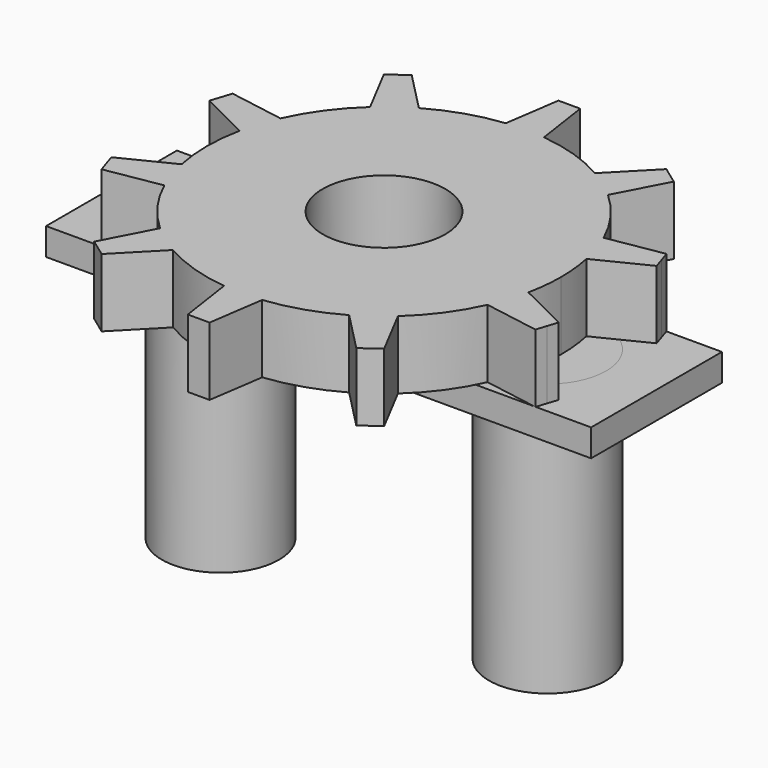
from build123d import *

# Parameters (mm, degrees)
F0_R     = 22.5
F1_DEPTH = 25
F4_R     = 21.5
F5_DEPTH = 100
F4_W     = 200
F4_H     = 60
F6_DEPTH = 10


with BuildPart() as f1:
    # F0 (on Top) → F1 (new body)
    with BuildSketch(Plane.XY):
        with BuildLine():
            ThreePointArc((63.622272, -13.311894), (64.654651, -6.691499), (65, 0))
            ThreePointArc((65, 0), (64.654651, 6.691499), (63.622272, 13.311894))
            ThreePointArc((63.622272, 13.311894), (61.818674, 20.086105), (59.296034, 26.626685))
            ThreePointArc((59.296034, 26.626685), (52.586105, 38.206041), (43.646964, 48.165781))
            ThreePointArc((43.646964, 48.165781), (38.206041, 52.586105), (32.320726, 56.394775))
            ThreePointArc((32.320726, 56.394775), (20.086105, 61.818674), (7, 64.621978))
            ThreePointArc((7, 64.621978), (0, 65), (-7, 64.621978))
            ThreePointArc((-7, 64.621978), (-20.086105, 61.818674), (-32.320726, 56.394775))
            ThreePointArc((-32.320726, 56.394775), (-38.206041, 52.586105), (-43.646964, 48.165781))
            ThreePointArc((-43.646964, 48.165781), (-52.586105, 38.206041), (-59.296034, 26.626685))
            ThreePointArc((-59.296034, 26.626685), (-61.818674, 20.086105), (-63.622272, 13.311894))
            ThreePointArc((-63.622272, 13.311894), (-65, 0), (-63.622272, -13.311894))
            ThreePointArc((-63.622272, -13.311894), (-61.818674, -20.086105), (-59.296034, -26.626685))
            ThreePointArc((-59.296034, -26.626685), (-52.586105, -38.206041), (-43.646964, -48.165781))
            ThreePointArc((-43.646964, -48.165781), (-38.206041, -52.586105), (-32.320726, -56.394775))
            ThreePointArc((-32.320726, -56.394775), (-20.086105, -61.818674), (-7, -64.621978))
            ThreePointArc((-7, -64.621978), (0, -65), (7, -64.621978))
            ThreePointArc((7, -64.621978), (20.086105, -61.818674), (32.320726, -56.394775))
            ThreePointArc((32.320726, -56.394775), (38.206041, -52.586105), (43.646964, -48.165781))
            ThreePointArc((43.646964, -48.165781), (52.586105, -38.206041), (59.296034, -26.626685))
            ThreePointArc((59.296034, -26.626685), (61.818674, -20.086105), (63.622272, -13.311894))
        make_face()
        Circle(F0_R, mode=Mode.SUBTRACT)
        with BuildLine():
            Line((53.197814, -66.415304), (43.646964, -48.165781))
            ThreePointArc((43.646964, -48.165781), (38.206041, -52.586105), (32.320726, -56.394775))
            Line((32.320726, -56.394775), (46.725678, -71.117586))
            Line((46.725678, -71.117586), (49.961746, -68.766445))
            Line((49.961746, -68.766445), (53.197814, -66.415304))
        make_face()
        with BuildLine():
            Line((82.075872, -22.462218), (63.622272, -13.311894))
            ThreePointArc((63.622272, -13.311894), (61.818674, -20.086105), (59.296034, -26.626685))
            Line((59.296034, -26.626685), (79.603736, -30.070671))
            Line((79.603736, -30.070671), (80.839804, -26.266445))
            Line((80.839804, -26.266445), (82.075872, -22.462218))
        make_face()
        with BuildLine():
            ThreePointArc((59.296034, 26.626685), (61.818674, 20.086105), (63.622272, 13.311894))
            Line((63.622272, 13.311894), (82.075872, 22.462218))
            Line((82.075872, 22.462218), (80.839804, 26.266445))
            Line((80.839804, 26.266445), (79.603736, 30.070671))
            Line((79.603736, 30.070671), (59.296034, 26.626685))
        make_face()
        with BuildLine():
            ThreePointArc((32.320726, 56.394775), (38.206041, 52.586105), (43.646964, 48.165781))
            Line((43.646964, 48.165781), (53.197814, 66.415304))
            Line((53.197814, 66.415304), (49.961746, 68.766445))
            Line((49.961746, 68.766445), (46.725678, 71.117586))
            Line((46.725678, 71.117586), (32.320726, 56.394775))
        make_face()
        with BuildLine():
            ThreePointArc((-7, 64.621978), (0, 65), (7, 64.621978))
            Line((7, 64.621978), (4, 85))
            Line((4, 85), (0, 85))
            Line((0, 85), (-4, 85))
            Line((-4, 85), (-7, 64.621978))
        make_face()
        with BuildLine():
            ThreePointArc((-43.646964, 48.165781), (-38.206041, 52.586105), (-32.320726, 56.394775))
            Line((-32.320726, 56.394775), (-46.725678, 71.117586))
            Line((-46.725678, 71.117586), (-49.961746, 68.766445))
            Line((-49.961746, 68.766445), (-53.197814, 66.415304))
            Line((-53.197814, 66.415304), (-43.646964, 48.165781))
        make_face()
        with BuildLine():
            ThreePointArc((-63.622272, 13.311894), (-61.818674, 20.086105), (-59.296034, 26.626685))
            Line((-59.296034, 26.626685), (-79.603736, 30.070671))
            Line((-79.603736, 30.070671), (-80.839804, 26.266445))
            Line((-80.839804, 26.266445), (-82.075872, 22.462218))
            Line((-82.075872, 22.462218), (-63.622272, 13.311894))
        make_face()
        with BuildLine():
            Line((-79.603736, -30.070671), (-59.296034, -26.626685))
            ThreePointArc((-59.296034, -26.626685), (-61.818674, -20.086105), (-63.622272, -13.311894))
            Line((-63.622272, -13.311894), (-82.075872, -22.462218))
            Line((-82.075872, -22.462218), (-80.839804, -26.266445))
            Line((-80.839804, -26.266445), (-79.603736, -30.070671))
        make_face()
        with BuildLine():
            Line((-46.725678, -71.117586), (-32.320726, -56.394775))
            ThreePointArc((-32.320726, -56.394775), (-38.206041, -52.586105), (-43.646964, -48.165781))
            Line((-43.646964, -48.165781), (-53.197814, -66.415304))
            Line((-53.197814, -66.415304), (-49.961746, -68.766445))
            Line((-49.961746, -68.766445), (-46.725678, -71.117586))
        make_face()
        with BuildLine():
            Line((4, -85), (7, -64.621978))
            ThreePointArc((7, -64.621978), (0, -65), (-7, -64.621978))
            Line((-7, -64.621978), (-4, -85))
            Line((-4, -85), (0, -85))
            Line((0, -85), (4, -85))
        make_face()
    extrude(amount=F1_DEPTH)


with BuildPart() as f2_1:
    # F2: copy of F1
    add(f1.part)


with BuildPart() as f5:
    # F4 (on Top) → F5 (new body)
    with BuildSketch(Plane.XY):
        with Locations((-60, 0)):
            Circle(F4_R)
        with Locations((60, 0)):
            Circle(F4_R)
    extrude(amount=-F5_DEPTH)


with BuildPart() as f6:
    # F4 (on Top) → F6 (new body)
    with BuildSketch(Plane.XY):
        Rectangle(F4_W, F4_H)
        with Locations((-60, 0)):
            Circle(F4_R, mode=Mode.SUBTRACT)
        with Locations((60, 0)):
            Circle(F4_R, mode=Mode.SUBTRACT)
    extrude(amount=-F6_DEPTH)


solid = Compound([f1.part, f5.part, f6.part])
